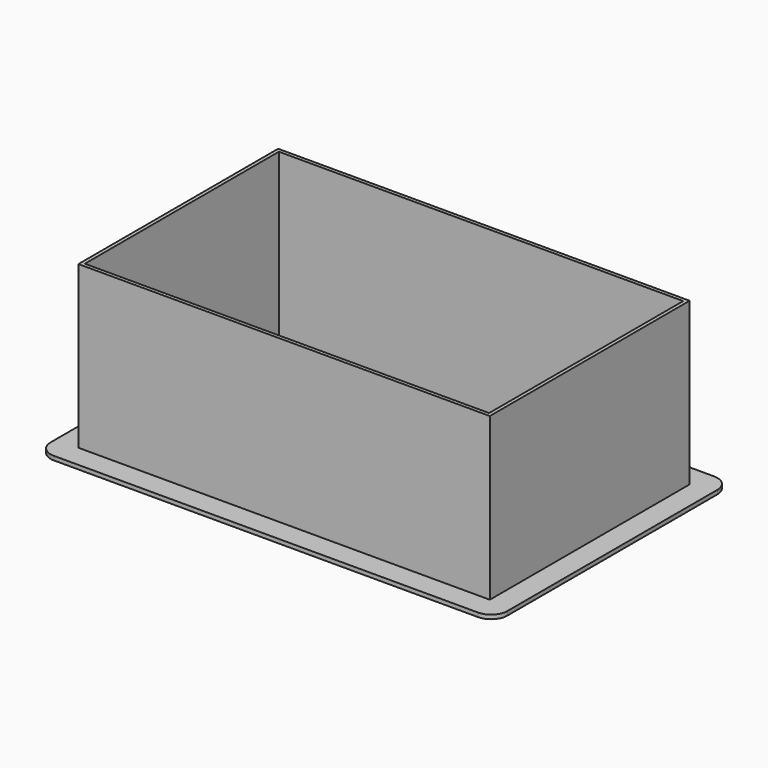
from build123d import *

# Parameters (mm, degrees)
F1_DEPTH = 2000
F2_W     = 2500
F2_H     = 3000
F3_DEPTH = 50
F4_R     = 200


with BuildPart() as f1:
    # F0 (on Top) → F1 (new body)
    with BuildSketch(Plane.XY):
        Polygon((-2500, -1500), (-2500, 1500), (-2544, 1544), (-2544, -1544), align=None)
        Polygon((-2544, 1544), (-2500, 1500), (0, 1500), (0, 1544), align=None)
        Polygon((0, -1500), (-2500, -1500), (-2544, -1544), (0, -1544), align=None)
    extrude(amount=F1_DEPTH)

    # F2 (on face) → F3 (join)
    with BuildSketch(Plane(origin=(0, 0, 0), x_dir=(1, 0, 0), z_dir=(0, 0, -1))):
        Polygon((0, 1823.9998817444), (-2823.9998817444, 1823.9998817444), (-2823.9998817444, -1823.9998817444), (0, -1823.9998817444), (0, -1544), (-2544, -1544), (-2544, 1544), (0, 1544), align=None)
        with Locations((-1250, 0)):
            Rectangle(F2_W, F2_H)
        Polygon((0, 1500), (0, 1544), (-2544, 1544), (-2544, -1544), (0, -1544), (0, -1500), (-2500, -1500), (-2500, 1500), align=None)
    extrude(amount=F3_DEPTH)

    # F4
    f4_edges = [f1.edges().sort_by_distance(p)[0] for p in [
        (-2823.999882, -1823.999882, -25),
        (-2823.999882, 1823.999882, -25),
    ]]
    fillet(f4_edges, radius=F4_R)

    # F5: F1 across face


with BuildPart() as f1_1:
    add(f1.part)
    add(f1.part.mirror(Plane(origin=(0, 0, 478.3482308939), x_dir=(0, 1, 0), z_dir=(1, 0, 0))))


solid = f1_1.part
